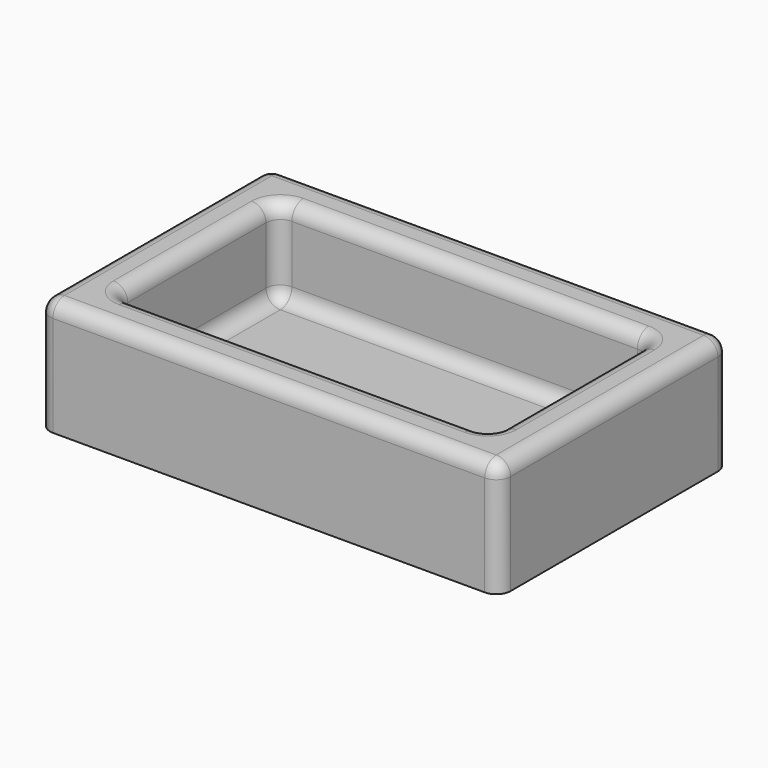
from build123d import *

# Parameters (mm, degrees)
F1_DEPTH = 40
F3_DEPTH = 30
F4_R     = 5


with BuildPart() as f1:
    # F0 (on Top) → F1 (new body)
    with BuildSketch(Plane.XY):
        with BuildLine():
            ThreePointArc((0, 5), (1.4644660941, 1.4644660941), (5, 0))
            Line((5, 0), (155, 0))
            ThreePointArc((155, 0), (158.5355339059, 1.4644660941), (160, 5))
            Line((160, 5), (160, 95))
            ThreePointArc((160, 95), (158.5355339059, 98.5355339059), (155, 100))
            Line((155, 100), (5, 100))
            ThreePointArc((5, 100), (1.4644660941, 98.5355339059), (0, 95))
            Line((0, 95), (0, 5))
        make_face()
    extrude(amount=F1_DEPTH)

    # F2 (on face) → F3 (cut)
    with BuildSketch(Plane.XY.offset(40)):
        with BuildLine():
            Line((140, 85), (20, 85))
            ThreePointArc((20, 85), (16.4644660941, 83.5355339059), (15, 80))
            Line((15, 80), (15, 20))
            ThreePointArc((15, 20), (16.4644660941, 16.4644660941), (20, 15))
            Line((20, 15), (140, 15))
            ThreePointArc((140, 15), (143.5355339059, 16.4644660941), (145, 20))
            Line((145, 20), (145, 80))
            ThreePointArc((145, 80), (143.5355339059, 83.5355339059), (140, 85))
        make_face()
    extrude(amount=-F3_DEPTH, mode=Mode.SUBTRACT)

    # F4
    f4_edges = [f1.edges().sort_by_distance(p)[0] for p in [
        (80, 85, 10),
        (0, 50, 40),
        (1.464466, 98.535534, 40),
        (1.464466, 1.464466, 40),
        (80, 100, 40),
        (80, 0, 40),
        (158.535534, 98.535534, 40),
        (158.535534, 1.464466, 40),
        (160, 50, 40),
        (80, 85, 40),
        (16.464466, 83.535534, 40),
        (15, 50, 40),
        (16.464466, 16.464466, 40),
        (80, 15, 40),
        (143.535534, 16.464466, 40),
        (145, 50, 40),
        (143.535534, 83.535534, 40),
    ]]
    fillet(f4_edges, radius=F4_R)


solid = f1.part
